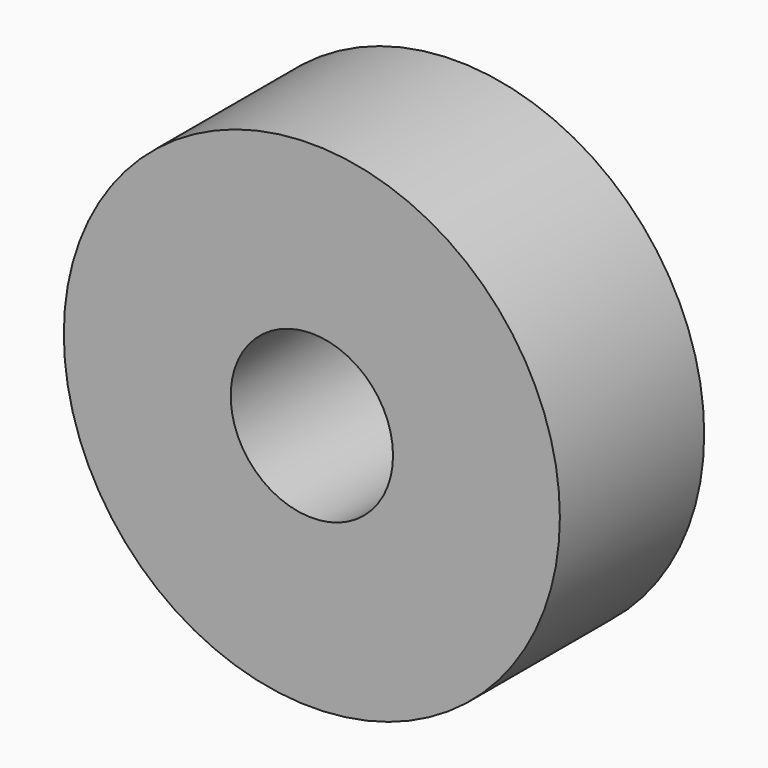
from build123d import *

# Parameters (mm, degrees)
CYLINDER015_R            = 0.9
CYLINDER015_DEPTH        = 2
CYLINDER014_R            = 2.75
CYLINDER014_DEPTH        = 2
CLONE017_PLACEMENT_ANGLE = 90


with BuildPart() as faceanchorscrewhole:
    # Cylinder015 → Cylinder015 (new body)
    with BuildSketch(Plane.XY):
        Circle(CYLINDER015_R)
    extrude(amount=CYLINDER015_DEPTH)


with BuildPart() as faceanchor003:
    # Cylinder014 → Cylinder014 (new body)
    with BuildSketch(Plane.XY):
        Circle(CYLINDER014_R)
    extrude(amount=CYLINDER014_DEPTH)

    # Cut015: cut FaceAnchorScrewHole
    add(faceanchorscrewhole.part, mode=Mode.SUBTRACT)


with BuildPart() as faceanchor003_1:
    # Clone017 placement: moved
    add(faceanchor003.part.moved(Location((80, 2, 7))).rotate(Axis((80, 2, 7), (1, 0, 0)), CLONE017_PLACEMENT_ANGLE))


solid = faceanchor003_1.part
